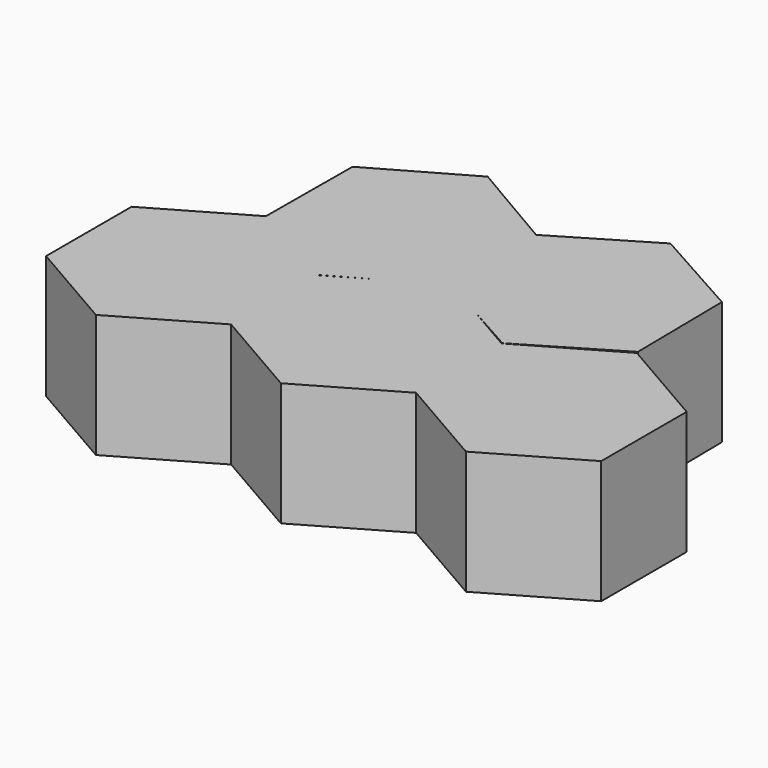
from build123d import *

# Parameters (mm, degrees)
F1_DEPTH = 25.4
F6_DEPTH = 25.4
F7_DEPTH = 25.4
F8_DEPTH = 25.4
F9_DEPTH = 25.4


with BuildPart() as f1:
    # F0 (on Top) → F1 (new body)
    with BuildSketch(Plane.XY):
        Polygon((19.05, -10.998523), (19.05, 10.998523), (0, 21.997045), (-19.05, 10.998523), (-19.05, -10.998523), (0, -21.997045), align=None)
    extrude(amount=F1_DEPTH)

    # F5 (on Top) → F6 (join)
    with BuildSketch(Plane.XY):
        Polygon((-19.244213, 10.961572), (-0.129696, 21.847583), (0, 43.844246), (-18.984821, 54.954898), (-38.099338, 44.068886), (-38.229034, 22.072224), align=None)
    extrude(amount=F6_DEPTH)

    # F4 (on Top) → F7 (join)
    with BuildSketch(Plane.XY):
        Polygon((-19.05, -10.998523), (-19.05, 10.998523), (-38.1, 21.997045), (-57.15, 10.998523), (-57.15, -10.998523), (-38.1, -21.997045), align=None)
    extrude(amount=F7_DEPTH)

    # F3 (on Top) → F8 (join)
    with BuildSketch(Plane.XY):
        Polygon((19.086355, 11.146432), (37.988951, 22.396404), (37.697487, 44.391519), (18.503427, 55.13666), (-0.399169, 43.886688), (-0.107704, 21.891573), align=None)
    extrude(amount=F8_DEPTH)

    # F2 (on Top) → F9 (join)
    with BuildSketch(Plane.XY):
        Polygon((19.05, 10.998523), (19.05, -10.998523), (38.1, -21.997045), (57.15, -10.998523), (57.15, 10.998523), (38.1, 21.997045), align=None)
    extrude(amount=F9_DEPTH)


solid = f1.part
